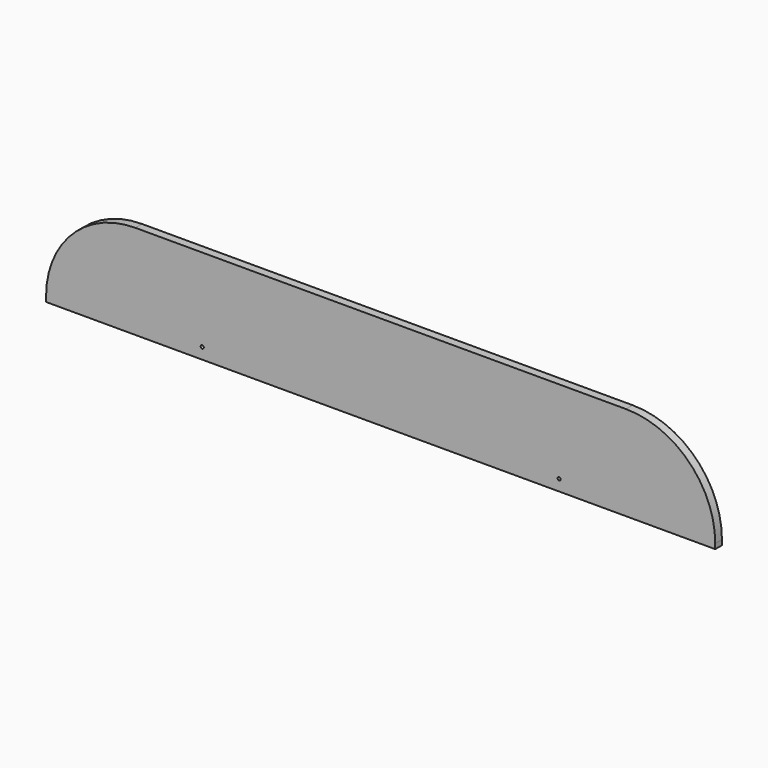
from build123d import *

# Parameters (mm, degrees)
F1_DEPTH      = 9.525
F1_DEPTH_BACK = 9.525
F3_D          = 7.1374


with BuildPart() as f1:
    # F0 (on Front) → F1 (new body, two sides)
    with BuildSketch(Plane.XZ) as f1_sk:
        with BuildLine():
            Line((-762, 11.6416666667), (-762, 0))
            Line((-762, 0), (762, 0))
            Line((762, 0), (762, 11.6416666667))
            ThreePointArc((762, 11.6416666667), (702.4840979371, 155.3257646038), (558.8, 214.8416666667))
            Line((558.8, 214.8416666667), (-558.8, 214.8416666667))
            ThreePointArc((-558.8, 214.8416666667), (-702.4840979371, 155.3257646038), (-762, 11.6416666667))
        make_face()
    extrude(amount=F1_DEPTH)
    extrude(f1_sk.sketch, amount=-F1_DEPTH_BACK)

    # F3 (through all)
    with Locations(Plane.XZ.offset(9.525)):
        with Locations((-406.4, 25.4), (406.4, 25.4)):
            Hole(F3_D / 2)


solid = f1.part
